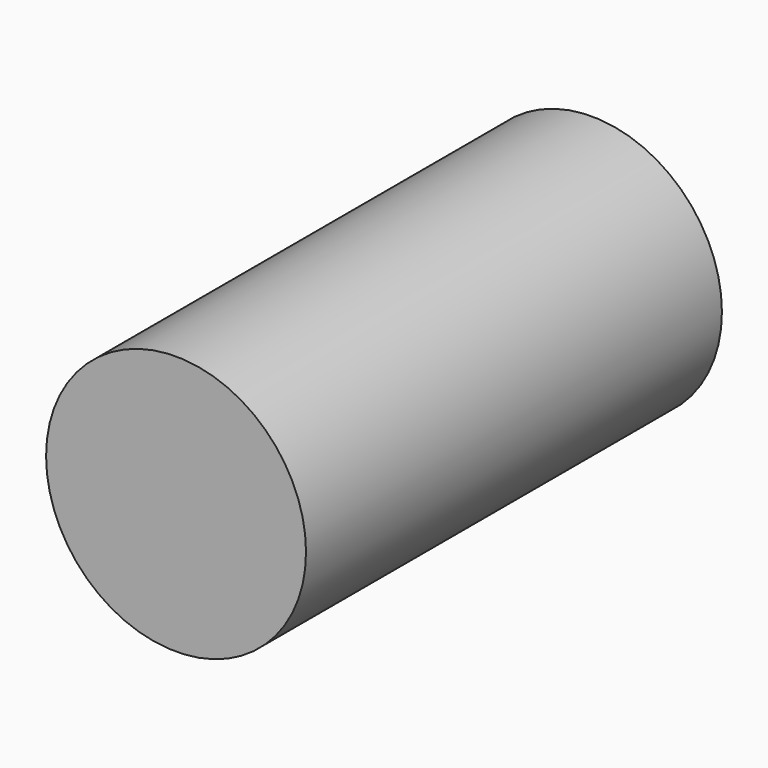
from build123d import *

# Parameters (mm, degrees)
F0_R      = 127
F1_DEPTH  = 254
F1_FACE_R = 127
F2_R      = 127
F3_DEPTH  = 254


with BuildPart() as f1:
    # F0 (on Front) → F1 (new body)
    with BuildSketch(Plane.XZ):
        Circle(F0_R)
    extrude(amount=F1_DEPTH)

    # F1_face (on face) + F2 (on face) → F3 (join)
    with BuildSketch(Plane(origin=(0, 0, 0), x_dir=(1, 0, 0), z_dir=(0, 1, 0))):
        Circle(F1_FACE_R)
    with BuildSketch(Plane(origin=(0, 0, 0), x_dir=(-1, 0, 0), z_dir=(0, 1, 0))):
        Circle(F2_R)
    extrude(amount=F3_DEPTH)


solid = f1.part
